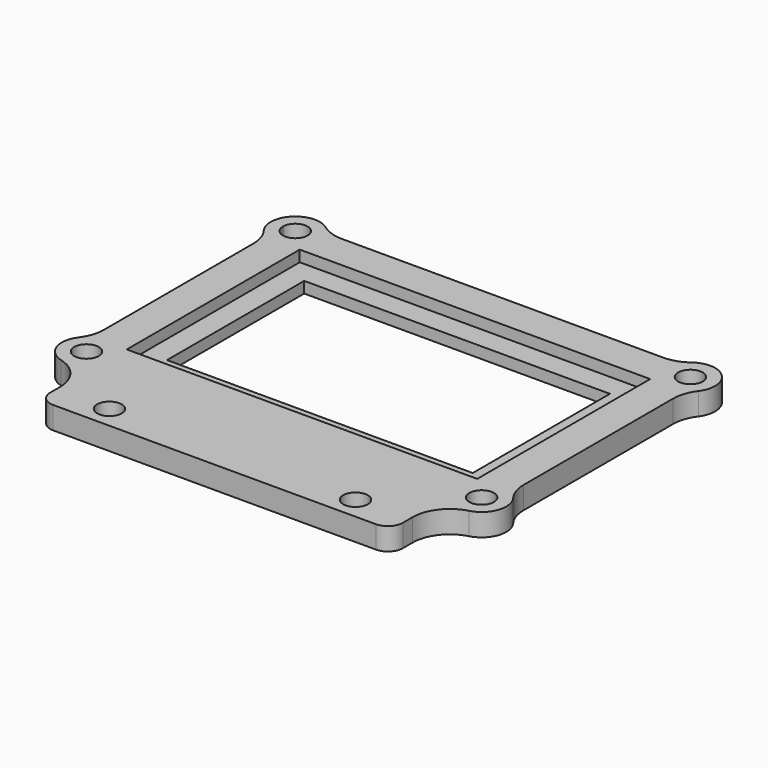
from build123d import *

# Parameters (mm, degrees)
F0_W          = 47
F0_H          = 29
F1_DEPTH      = 1.5
F0_R          = 1.65
F2_DEPTH      = 3
F3_W          = 41
F3_H          = 23
F4_DEPTH      = 1.5
F4_DEPTH_BACK = 25


with BuildPart() as f1:
    # F0 (on Top) → F1 (new body)
    with BuildSketch(Plane.XY):
        with Locations((0, 14.5)):
            Rectangle(F0_W, F0_H)
    extrude(amount=F1_DEPTH)

    # F0 (on Top) → F2 (join)
    with BuildSketch(Plane.XY):
        with BuildLine():
            ThreePointArc((-21.533361, 33.65), (-23.10973, 33.904996), (-24.525312, 34.643976))
            ThreePointArc((-24.525312, 34.643976), (-28.834444, 34.33246), (-29.142296, 30.023065))
            ThreePointArc((-29.142296, 30.023065), (-28.401441, 28.606095), (-28.145774, 27.027708))
            Line((-28.145774, 27.027708), (-28.145774, 1.972292))
            ThreePointArc((-28.145774, 1.972292), (-28.401441, 0.393905), (-29.142296, -1.023065))
            ThreePointArc((-29.142296, -1.023065), (-29.617954, -4.080909), (-27.351685, -6.188202))
            ThreePointArc((-27.351685, -6.188202), (-24.676504, -7.9735), (-23.642116, -11.018812))
            Line((-23.642116, -11.018812), (-23.642116, -12.65))
            ThreePointArc((-23.642116, -12.65), (-23.05633, -14.064214), (-21.642116, -14.65))
            Line((-21.642116, -14.65), (21.642116, -14.65))
            ThreePointArc((21.642116, -14.65), (23.05633, -14.064214), (23.642116, -12.65))
            Line((23.642116, -12.65), (23.642116, -11.018812))
            ThreePointArc((23.642116, -11.018812), (24.676504, -7.9735), (27.351685, -6.188202))
            ThreePointArc((27.351685, -6.188202), (29.617954, -4.080909), (29.142296, -1.023065))
            ThreePointArc((29.142296, -1.023065), (28.401441, 0.393905), (28.145774, 1.972292))
            Line((28.145774, 1.972292), (28.145774, 27.027708))
            ThreePointArc((28.145774, 27.027708), (28.401441, 28.606095), (29.142296, 30.023065))
            ThreePointArc((29.142296, 30.023065), (28.834444, 34.33246), (24.525312, 34.643976))
            ThreePointArc((24.525312, 34.643976), (23.10973, 33.904996), (21.533361, 33.65))
            Line((21.533361, 33.65), (-21.533361, 33.65))
        make_face()
        with Locations((-16.5, -11.65)):
            Circle(F0_R, mode=Mode.SUBTRACT)
        with Locations((-26.5, -3)):
            Circle(F0_R, mode=Mode.SUBTRACT)
        with Locations((16.5, -11.65)):
            Circle(F0_R, mode=Mode.SUBTRACT)
        with Locations((26.5, -3)):
            Circle(F0_R, mode=Mode.SUBTRACT)
        with BuildLine():
            ThreePointArc((-28.145774, 32.118016), (-26.440954, 33.648943), (-24.85, 32))
            ThreePointArc((-24.85, 32), (-26.440954, 30.351057), (-28.145774, 31.881984))
            ThreePointArc((-28.145774, 31.881984), (-28.15, 32), (-28.145774, 32.118016))
        make_face(mode=Mode.SUBTRACT)
        with Locations((0, 14.5)):
            Rectangle(F0_W, F0_H, mode=Mode.SUBTRACT)
        with BuildLine():
            ThreePointArc((28.145774, 32.118016), (28.148943, 32.059046), (28.15, 32))
            ThreePointArc((28.15, 32), (28.148943, 31.940954), (28.145774, 31.881984))
            ThreePointArc((28.145774, 31.881984), (24.85, 32), (28.145774, 32.118016))
        make_face(mode=Mode.SUBTRACT)
    extrude(amount=F2_DEPTH)

    # F3 (on face) → F4 (cut, two sides)
    with BuildSketch(Plane.XY.offset(1.5)) as f4_sk:
        with Locations((0, 14.5)):
            Rectangle(F3_W, F3_H)
    extrude(amount=-F4_DEPTH, mode=Mode.SUBTRACT)
    extrude(f4_sk.sketch, amount=-F4_DEPTH_BACK, mode=Mode.SUBTRACT)


solid = f1.part
